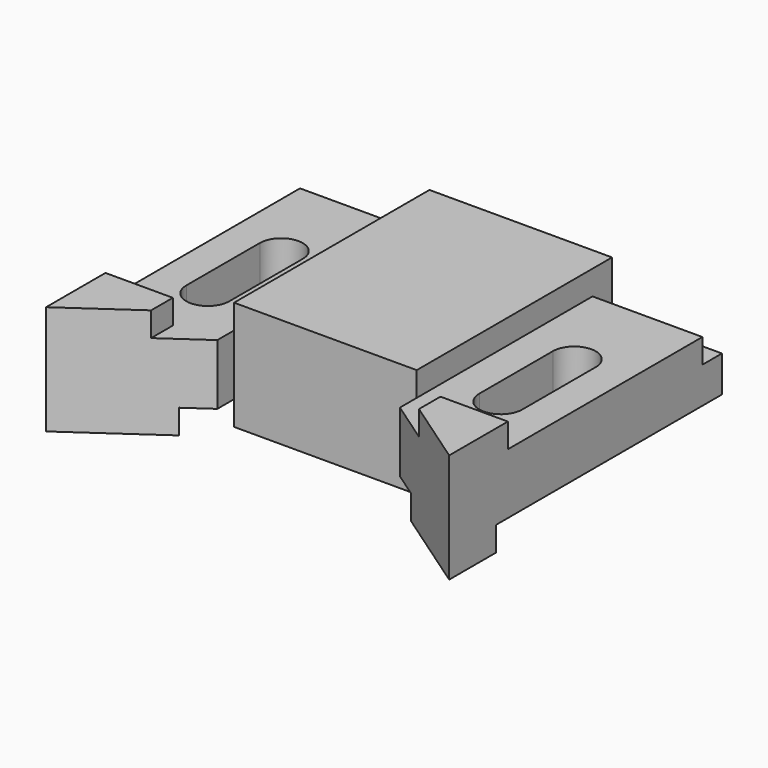
from build123d import *

# Parameters (mm, degrees)
F0_W      = 28.575
F0_H      = 88.9
F0_W_2    = 47.498
F1_DEPTH  = 28.448
F2_DEPTH  = 25.4
F3_W      = 28.575
F3_H      = 73.406
F4_DEPTH  = 6.35
F5_W      = 28.575
F5_H      = 6.35
F6_DEPTH  = 6.35
F7_DEPTH  = 12.7
F8_W      = 47.498
F8_H      = 25.4
F9_DEPTH  = 28.449
F11_DEPTH = 28.449


with BuildPart() as f1:
    # F0 (on Top) → F1 (new body)
    with BuildSketch(Plane.XY):
        with Locations((-38.0365, 0)):
            Rectangle(F0_W, F0_H)
        with BuildLine():
            ThreePointArc((-43.688, 14.224), (-38.1, 19.812), (-32.512, 14.224))
            Line((-32.512, 14.224), (-32.512, -9.652))
            ThreePointArc((-32.512, -9.652), (-38.1, -15.24), (-43.688, -9.652))
            Line((-43.688, -9.652), (-43.688, 14.224))
        make_face(mode=Mode.SUBTRACT)
        Rectangle(F0_W_2, F0_H)
        with Locations((38.0365, 0)):
            Rectangle(F0_W, F0_H)
        with BuildLine():
            ThreePointArc((32.512, 14.224), (38.1, 19.812), (43.688, 14.224))
            Line((43.688, 14.224), (43.688, -9.652))
            ThreePointArc((43.688, -9.652), (38.1, -15.24), (32.512, -9.652))
            Line((32.512, -9.652), (32.512, 14.224))
        make_face(mode=Mode.SUBTRACT)
    extrude(amount=F1_DEPTH)

    # F0 (on Top) → F2 (join)
    with BuildSketch(Plane.XY):
        with Locations((-38.0365, 0)):
            Rectangle(F0_W, F0_H)
        with BuildLine():
            ThreePointArc((-43.688, 14.224), (-38.1, 19.812), (-32.512, 14.224))
            Line((-32.512, 14.224), (-32.512, -9.652))
            ThreePointArc((-32.512, -9.652), (-38.1, -15.24), (-43.688, -9.652))
            Line((-43.688, -9.652), (-43.688, 14.224))
        make_face(mode=Mode.SUBTRACT)
        Rectangle(F0_W_2, F0_H)
        with Locations((38.0365, 0)):
            Rectangle(F0_W, F0_H)
        with BuildLine():
            ThreePointArc((32.512, 14.224), (38.1, 19.812), (43.688, 14.224))
            Line((43.688, 14.224), (43.688, -9.652))
            ThreePointArc((43.688, -9.652), (38.1, -15.24), (32.512, -9.652))
            Line((32.512, -9.652), (32.512, 14.224))
        make_face(mode=Mode.SUBTRACT)
    extrude(amount=F2_DEPTH)

    # F3 (on face) → F4 (cut)
    with BuildSketch(Plane(origin=(0, 0, 0), x_dir=(1, 0, 0), z_dir=(0, 0, -1))):
        with Locations((38.0365, -7.747)):
            Rectangle(F3_W, F3_H)
        with BuildLine():
            ThreePointArc((43.688, -14.224), (38.1, -19.812), (32.512, -14.224))
            Line((32.512, -14.224), (32.512, 9.652))
            ThreePointArc((32.512, 9.652), (38.1, 15.24), (43.688, 9.652))
            Line((43.688, 9.652), (43.688, -14.224))
        make_face(mode=Mode.SUBTRACT)
        with Locations((-38.0365, -7.747)):
            Rectangle(F3_W, F3_H)
        with BuildLine():
            Line((-32.512, 9.652), (-32.512, -14.224))
            ThreePointArc((-32.512, -14.224), (-38.1, -19.812), (-43.688, -14.224))
            Line((-43.688, -14.224), (-43.688, 9.652))
            ThreePointArc((-43.688, 9.652), (-38.1, 15.24), (-32.512, 9.652))
        make_face(mode=Mode.SUBTRACT)
    extrude(amount=-F4_DEPTH, mode=Mode.SUBTRACT)

    # F5 (on face) → F6 (cut)
    with BuildSketch(Plane.XY.offset(28.448)):
        with Locations((38.0365, 41.275)):
            Rectangle(F5_W, F5_H)
        Polygon((-23.749, 38.1), (-52.324, 38.1), (-52.324, -25.146), (-34.798, -25.146), (-34.798, -44.45), (-23.749, -44.45), align=None)
        with BuildLine():
            Line((-43.688, -9.652), (-43.688, 14.224))
            ThreePointArc((-43.688, 14.224), (-38.1, 19.812), (-32.512, 14.224))
            Line((-32.512, 14.224), (-32.512, -9.652))
            ThreePointArc((-32.512, -9.652), (-38.1, -15.24), (-43.688, -9.652))
        make_face(mode=Mode.SUBTRACT)
        with Locations((-38.0365, 41.275)):
            Rectangle(F5_W, F5_H)
        Polygon((52.324, 38.1), (23.749, 38.1), (23.749, -44.45), (34.798, -44.45), (34.798, -25.146), (52.324, -25.146), align=None)
        with BuildLine():
            ThreePointArc((43.688, -9.652), (38.1, -15.24), (32.512, -9.652))
            Line((32.512, -9.652), (32.512, 14.224))
            ThreePointArc((32.512, 14.224), (38.1, 19.812), (43.688, 14.224))
            Line((43.688, 14.224), (43.688, -9.652))
        make_face(mode=Mode.SUBTRACT)
    extrude(amount=-F6_DEPTH, mode=Mode.SUBTRACT)

    # F5 (on face) → F7 (cut)
    with BuildSketch(Plane.XY.offset(28.448)):
        with Locations((-38.0365, 41.275)):
            Rectangle(F5_W, F5_H)
        with Locations((38.0365, 41.275)):
            Rectangle(F5_W, F5_H)
    extrude(amount=-F7_DEPTH, mode=Mode.SUBTRACT)

    # F8 (on face) → F9 (cut, through all)
    with BuildSketch(Plane.XY.offset(28.448)):
        with Locations((0, -31.75)):
            Rectangle(F8_W, F8_H)
    extrude(amount=-F9_DEPTH, mode=Mode.SUBTRACT)

    # F10 (on face) → F11 (cut, through all)
    with BuildSketch(Plane.XY):
        Polygon((-23.749, -24.506965), (-52.324, -44.45), (-23.749, -44.45), align=None)
        Polygon((23.749, -44.45), (52.668778, -44.45), (23.749, -24.506965), align=None)
    extrude(amount=F11_DEPTH, mode=Mode.SUBTRACT)


solid = f1.part
